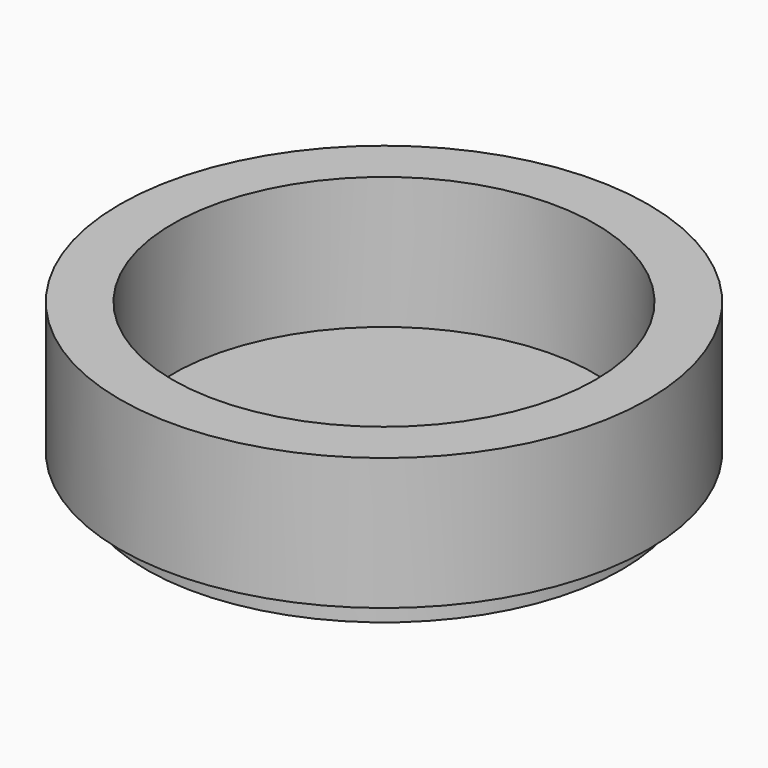
from build123d import *

# Parameters (mm, degrees)
SKETCH_R      = 9
PAD_DEPTH     = 1
SKETCH002_R   = 10
SKETCH002_R_2 = 8
PAD001_DEPTH  = 5


with BuildPart() as part:
    # Sketch → Pad (new body)
    with BuildSketch(Plane.XY):
        Circle(SKETCH_R)
    extrude(amount=PAD_DEPTH)

    # Sketch002 (on Face3 of Pad) → Pad001 (join)
    with BuildSketch(Plane.XY.offset(1)):
        Circle(SKETCH002_R)
        Circle(SKETCH002_R_2, mode=Mode.SUBTRACT)
    extrude(amount=PAD001_DEPTH)


solid = part.part
